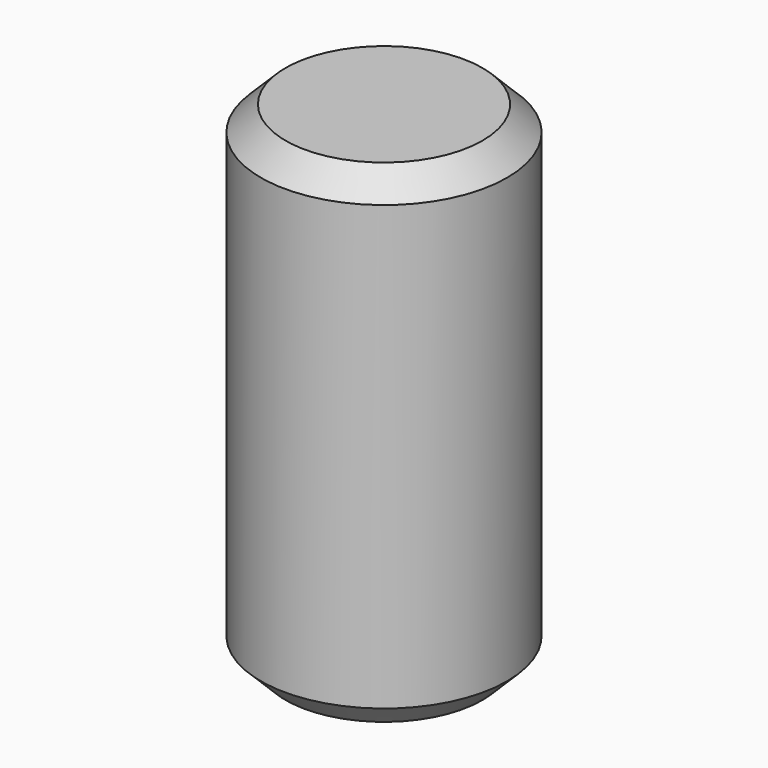
from build123d import *

# Parameters (mm, degrees)
F0_R     = 5
F1_DEPTH = 10
F2_SIZE  = 1


with BuildPart() as f1:
    # F0 (on Top) → F1 (new body, symmetric)
    with BuildSketch(Plane.XY):
        Circle(F0_R)
    extrude(amount=F1_DEPTH, both=True)

    # F2
    f2_edges = [f1.edges().sort_by_distance(p)[0] for p in [
        (-5, 0, 10),
        (-5, 0, -10),
    ]]
    chamfer(f2_edges, length=F2_SIZE)


solid = f1.part
